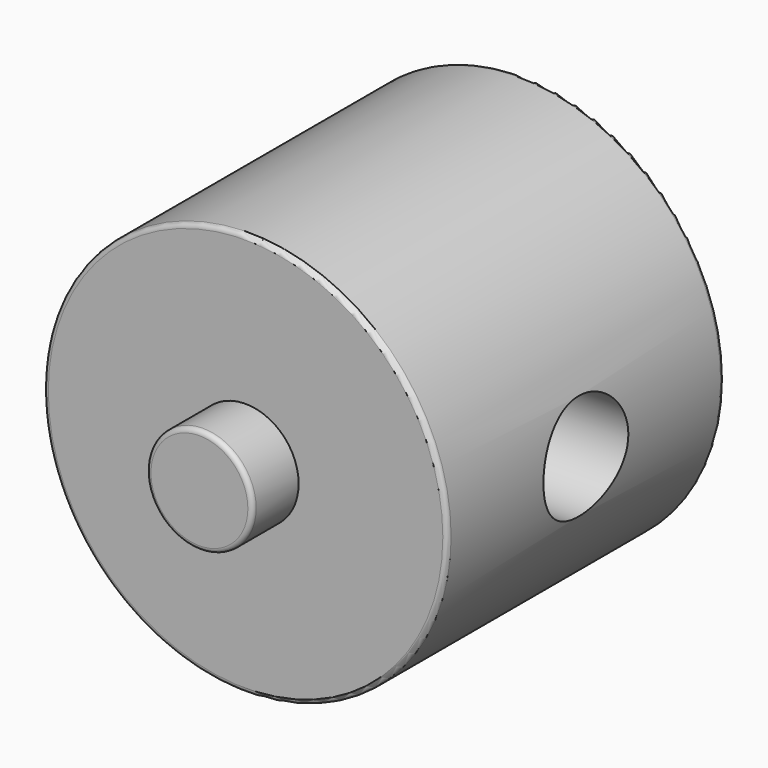
from build123d import *

# Parameters (mm, degrees)
F0_R     = 11.1125
F3_DEPTH = 9.525
F1_R     = 2.921
F4_DEPTH = 12.7
F2_R     = 2.921
F5_DEPTH = 12.7
F6_R     = 0.254


with BuildPart() as f3:
    # F0 (on Front) → F3 (new body, symmetric)
    with BuildSketch(Plane.XZ):
        Circle(F0_R)
    extrude(amount=F3_DEPTH, both=True)

    # F1 (on Front) → F4 (join, symmetric)
    with BuildSketch(Plane.XZ):
        Circle(F1_R)
    extrude(amount=F4_DEPTH, both=True)

    # F2 (on Right) → F5 (cut, symmetric)
    with BuildSketch(Plane.YZ):
        Circle(F2_R)
    extrude(amount=F5_DEPTH, both=True, mode=Mode.SUBTRACT)

    # F6
    f6_edges = [f3.edges().sort_by_distance(p)[0] for p in [
        (-2.921, -12.7, 0),
        (-11.1125, -9.525, 0),
        (-11.1125, 9.525, 0),
        (-2.921, 12.7, 0),
    ]]
    fillet(f6_edges, radius=F6_R)


solid = f3.part
